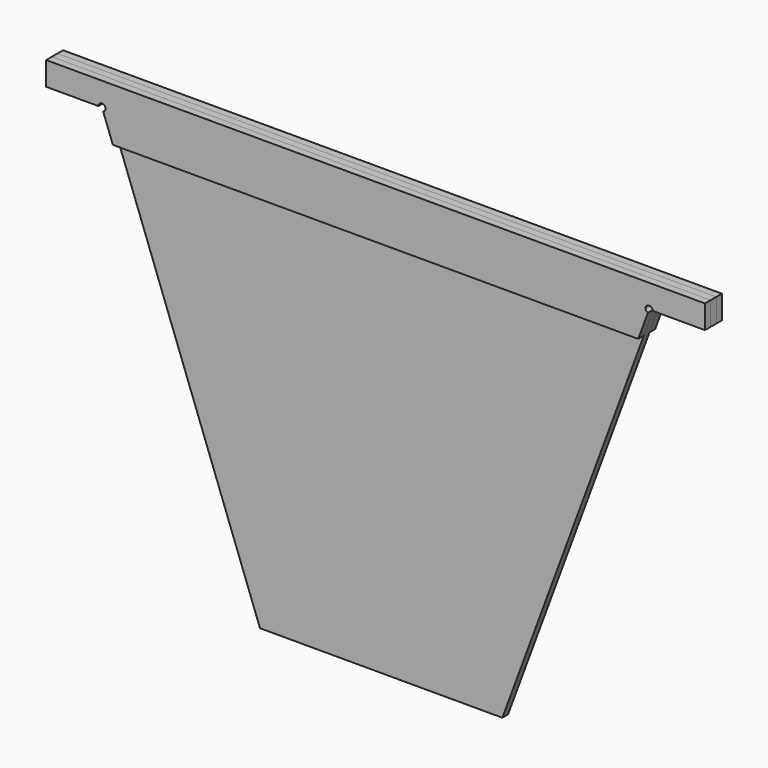
from build123d import *

# Parameters (mm, degrees)
F1_DEPTH = 3
F3_DEPTH = 6
F4_W     = 560
F4_H     = 45
F5_DEPTH = 6
F7_DEPTH = 6
F9_DEPTH = 18.001


with BuildPart() as f1:
    # F0 (on Front) → F1 (new body, symmetric)
    with BuildSketch(Plane.XZ):
        Polygon((-103, -350), (0, -350), (103, -350), (232.5, 0), (-232.5, 0), align=None)
    extrude(amount=F1_DEPTH, both=True)


with BuildPart() as f3:
    # F2 (on face) → F3 (new body)
    with BuildSketch(Plane.XZ.offset(3)):
        Polygon((-280, 20), (-280, -25), (-223.25, -25), (-232.5, 0), (232.5, 0), (223.25, -25), (280, -25), (280, 20), align=None)
        Polygon((-232.5, 0), (-223.25, -25), (223.25, -25), (232.5, 0), align=None)
    extrude(amount=F3_DEPTH)


with BuildPart() as f5:
    # F4 (on face) → F5 (new body)
    with BuildSketch(Plane(origin=(0, 3, 0), x_dir=(-1, 0, 0), z_dir=(0, 1, 0))):
        with Locations((0, -2.5)):
            Rectangle(F4_W, F4_H)
    extrude(amount=F5_DEPTH)


with BuildPart() as f7:
    # F6 (on face) → F7 (new body)
    with BuildSketch(Plane(origin=(0, -3, 0), x_dir=(-1, 0, 0), z_dir=(0, 1, 0))):
        Polygon((-280, 20), (-280, -25), (-223.25, -25), (-232.5, 0), (232.5, 0), (223.25, -25), (280, -25), (280, 20), align=None)
    extrude(amount=F7_DEPTH)


with BuildPart() as f9_tool:
    # F8 (on face) → F9 (new body, through all)
    with BuildSketch(Plane(origin=(0, 9, 0), x_dir=(-1, 0, 0), z_dir=(0, 1, 0))):
        with BuildLine():
            ThreePointArc((-231.458973, -2.813586), (-234.214194, -2.462019), (-235.5, 0))
            Line((-235.5, 0), (-280, 0))
            Line((-280, 0), (-280, -25))
            Line((-280, -25), (-223.279387, -25))
            Line((-223.279387, -25), (-223.25, -25))
            Line((-223.25, -25), (-231.458973, -2.813586))
        make_face()
        with BuildLine():
            Line((231.458973, -2.813586), (223.25, -25))
            Line((223.25, -25), (223.279387, -25))
            Line((223.279387, -25), (280, -25))
            Line((280, -25), (280, 0))
            Line((280, 0), (235.5, 0))
            ThreePointArc((235.5, 0), (234.214194, -2.462019), (231.458973, -2.813586))
        make_face()
        with BuildLine():
            Line((-229.5, 0), (-232.5, 0))
            Line((-232.5, 0), (-231.458973, -2.813586))
            ThreePointArc((-231.458973, -2.813586), (-230.037981, -1.714194), (-229.5, 0))
        make_face()
        with BuildLine():
            Line((-231.458973, -2.813586), (-232.5, 0))
            Line((-232.5, 0), (-235.5, 0))
            ThreePointArc((-235.5, 0), (-234.214194, -2.462019), (-231.458973, -2.813586))
        make_face()
        with BuildLine():
            Line((-235.5, 0), (-232.5, 0))
            Line((-232.5, 0), (-229.5, 0))
            ThreePointArc((-229.5, 0), (-232.5, 3), (-235.5, 0))
        make_face()
        with BuildLine():
            ThreePointArc((229.5, 0), (230.037981, -1.714194), (231.458973, -2.813586))
            Line((231.458973, -2.813586), (232.5, 0))
            Line((232.5, 0), (229.5, 0))
        make_face()
        with BuildLine():
            Line((229.5, 0), (232.5, 0))
            Line((232.5, 0), (235.5, 0))
            ThreePointArc((235.5, 0), (232.5, 3), (229.5, 0))
        make_face()
        with BuildLine():
            Line((232.5, 0), (231.458973, -2.813586))
            ThreePointArc((231.458973, -2.813586), (234.214194, -2.462019), (235.5, 0))
            Line((235.5, 0), (232.5, 0))
        make_face()
    extrude(amount=-F9_DEPTH)


with BuildPart() as f1_1:
    add(f1.part)

    # F9: cut by f9_tool
    add(f9_tool.part, mode=Mode.SUBTRACT)


with BuildPart() as f3_1:
    add(f3.part)

    # F9: cut by f9_tool
    add(f9_tool.part, mode=Mode.SUBTRACT)


with BuildPart() as f5_1:
    add(f5.part)

    # F9: cut by f9_tool
    add(f9_tool.part, mode=Mode.SUBTRACT)


with BuildPart() as f7_1:
    add(f7.part)

    # F9: cut by f9_tool
    add(f9_tool.part, mode=Mode.SUBTRACT)


solid = Compound([f1_1.part, f3_1.part, f5_1.part, f7_1.part])
